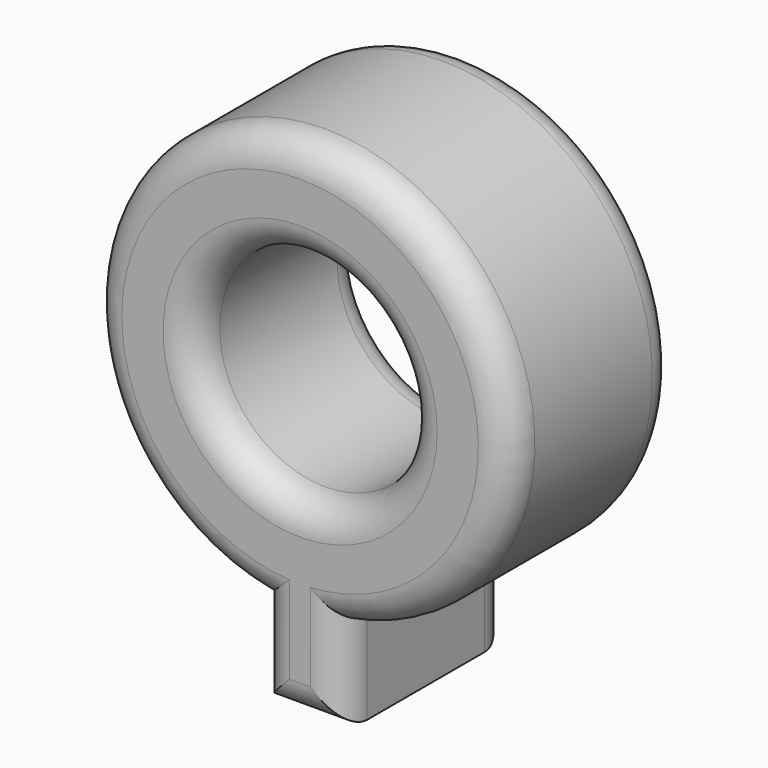
from build123d import *

# Parameters (mm, degrees)
F0_R     = 1.279381
F1_DEPTH = 2.54
F2_R     = 0.381


with BuildPart() as f1:
    # F0 (on Front) → F1 (new body)
    with BuildSketch(Plane.XZ):
        with BuildLine():
            Line((0.508, -3.596916), (0.508, -2.488682))
            ThreePointArc((0.508, -2.488682), (0, 2.54), (-0.508, -2.488682))
            Line((-0.508, -2.488682), (-0.508, -3.596916))
            Line((-0.508, -3.596916), (0.508, -3.596916))
        make_face()
        Circle(F0_R, mode=Mode.SUBTRACT)
    extrude(amount=F1_DEPTH)

    # F2
    f2_edges = [f1.edges().sort_by_distance(p)[0] for p in [
        (-0.508, -2.54, -3.042799),
        (0, -2.54, -3.596916),
        (0.508, -2.54, -3.042799),
        (0, -2.54, 2.54),
        (-1.279381, -2.54, 0),
        (-0.508, 0, -3.042799),
        (0, 0, -3.596916),
        (0.508, 0, -3.042799),
        (0, 0, 2.54),
        (-1.279381, 0, 0),
    ]]
    fillet(f2_edges, radius=F2_R)


solid = f1.part
